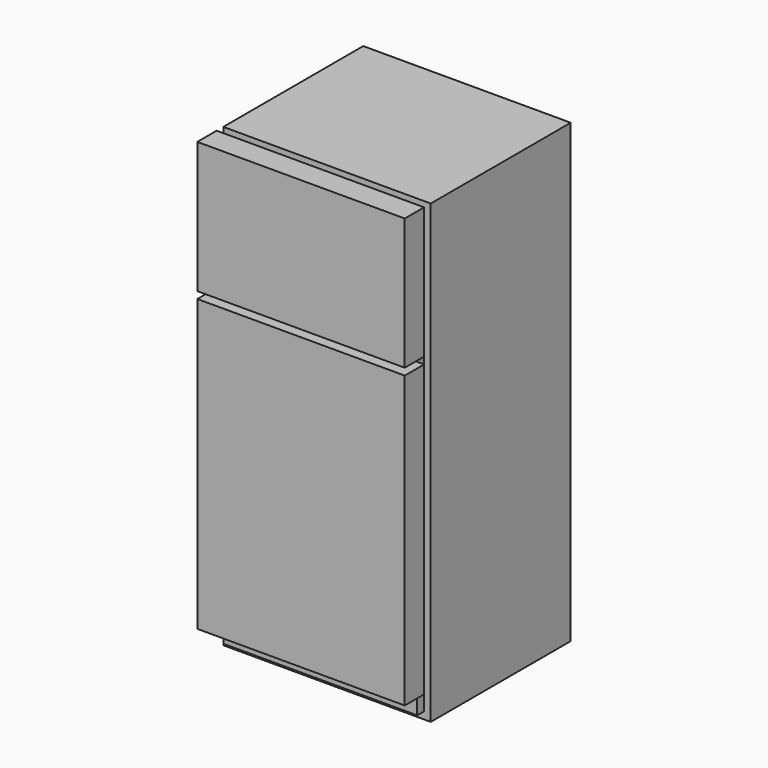
from build123d import *

# Parameters (mm, degrees)
F0_W     = 762
F0_H     = 673.1
F1_DEPTH = 1676.4
F2_W     = 762
F2_H     = 1676.4
F2_W_2   = 711.2
F2_H_2   = 1625.6
F3_DEPTH = 30.48
F4_W     = 711.2
F4_H     = 457.2
F4_W_2   = 25.4
F4_H_2   = 1066.8
F5_DEPTH = 88.9
F6_W     = 508
F6_H     = 388.62
F7_DEPTH = 1539.24


with BuildPart() as f1:
    # F0 (on Top) → F1 (new body)
    with BuildSketch(Plane.XY):
        Rectangle(F0_W, F0_H)
    extrude(amount=F1_DEPTH)

    # F2 (on face) → F3 (cut)
    with BuildSketch(Plane.XZ.offset(336.55)):
        with Locations((0, 838.2)):
            Rectangle(F2_W, F2_H)
        with Locations((0, 838.2)):
            Rectangle(F2_W_2, F2_H_2, mode=Mode.SUBTRACT)
    extrude(amount=-F3_DEPTH, mode=Mode.SUBTRACT)

    # F4 (on face) → F5 (join)
    with BuildSketch(Plane.XZ.offset(336.55)):
        with Locations((0, 1422.4)):
            Rectangle(F4_W, F4_H)
        Polygon((381, 1676.4), (-381, 1676.4), (-381, 1193.8), (-355.6, 1193.8), (-355.6, 1651), (355.6, 1651), (355.6, 1193.8), (381, 1193.8), align=None)
        with Locations((368.3, 635)):
            Rectangle(F4_W_2, F4_H_2)
        with Locations((0, 635)):
            Rectangle(F4_W, F4_H_2)
        with Locations((-368.3, 635)):
            Rectangle(F4_W_2, F4_H_2)
    extrude(amount=F5_DEPTH)

    # F6 (on face) → F7 (cut)
    with BuildSketch(Plane(origin=(0, 0, 0), x_dir=(1, 0, 0), z_dir=(0, 0, -1))):
        with Locations((0, -15.24)):
            Rectangle(F6_W, F6_H)
    extrude(amount=-F7_DEPTH, mode=Mode.SUBTRACT)


solid = f1.part
